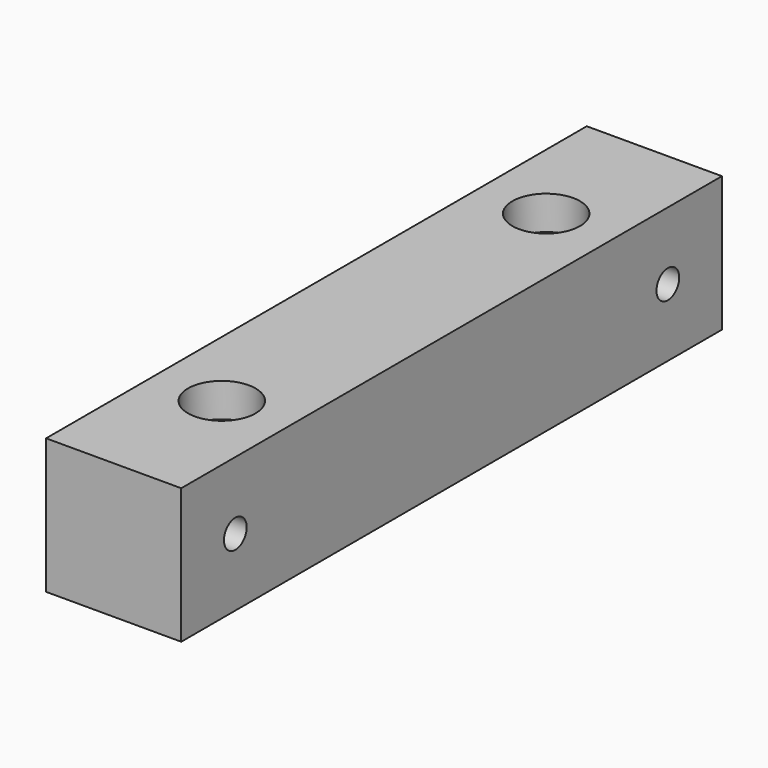
from build123d import *

# Parameters (mm, degrees)
F0_W     = 20
F0_H     = 100
F0_R     = 2.6
F1_DEPTH = 20
F2_R     = 5
F3_DEPTH = 5
F4_R     = 2.1
F5_DEPTH = 25


with BuildPart() as f1:
    # F0 (on Top) → F1 (new body)
    with BuildSketch(Plane.XY):
        Rectangle(F0_W, F0_H)
        with Locations((0, -30)):
            Circle(F0_R, mode=Mode.SUBTRACT)
        with Locations((0, 30)):
            Circle(F0_R, mode=Mode.SUBTRACT)
    extrude(amount=F1_DEPTH)

    # F2 (on face) → F3 (cut)
    with BuildSketch(Plane.XY.offset(20)):
        with Locations((0, 30)):
            Circle(F2_R)
        with Locations((0, -30)):
            Circle(F2_R)
    extrude(amount=-F3_DEPTH, mode=Mode.SUBTRACT)

    # F4 (on face) → F5 (cut)
    with BuildSketch(Plane.YZ.offset(10)):
        with Locations((-40, 10)):
            Circle(F4_R)
        with Locations((40, 10)):
            Circle(F4_R)
    extrude(amount=-F5_DEPTH, mode=Mode.SUBTRACT)


solid = f1.part
